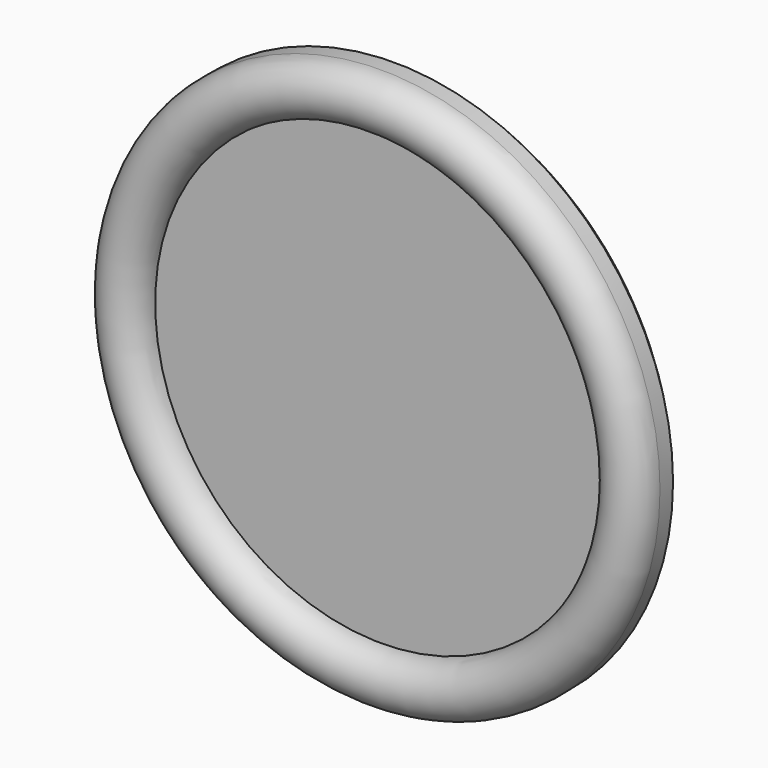
from build123d import *


with BuildPart() as f1:
    # F0 (on Top) → F1 (revolve)
    with BuildSketch(Plane.XY):
        with BuildLine():
            Line((40.342964, -2.390251), (40.315583, 0))
            Line((40.315583, 0), (36.521591, 0))
            Line((36.521591, 0), (36.521591, -2.390251))
            Line((36.521591, -2.390251), (32.700218, -2.390251))
            ThreePointArc((32.700218, -2.390251), (36.521591, -6.211624), (40.342964, -2.390251))
        make_face()
        with BuildLine():
            Line((36.521591, 0), (40.315583, 0))
            ThreePointArc((40.315583, 0), (21.983461, 12.595545), (0, 15.97813))
            Line((0, 15.97813), (0, 0))
            Line((0, 0), (36.521591, 0))
        make_face()
    revolve(axis=Axis((0, 7.989065, 0), (0, 1, 0)))


solid = f1.part
